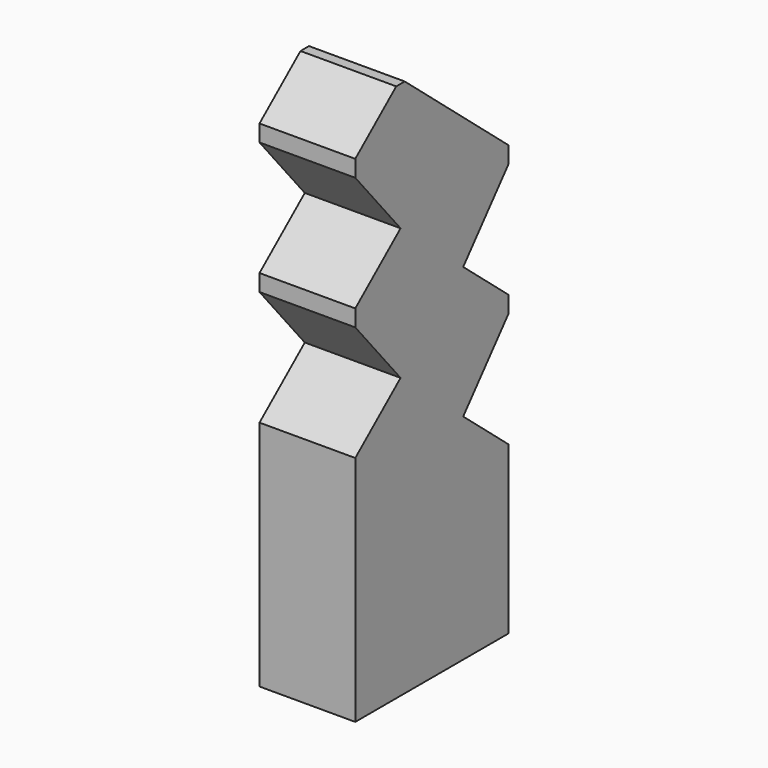
from build123d import *

# Parameters (mm, degrees)
CYLINDER128_R                   = 6
CYLINDER128_DEPTH               = 10
BOX001027045018_W               = 21
BOX001027045018_H               = 13
BOX001027045018_DEPTH           = 30
BOX001027045018_ROLL_ANGLE      = 40
BOX001027045019_W               = 21
BOX001027045019_H               = 13
BOX001027045019_DEPTH           = 30
BOX001027045019_ROLL_ANGLE      = 39.99997
BOX001027045019_PLACEMENT_ANGLE = 180
BOX001027045021_W               = 21
BOX001027045021_H               = 13
BOX001027045021_DEPTH           = 30
BOX001027045021_ROLL_ANGLE      = 40
BOX001027045021_PLACEMENT_ANGLE = 180
BOX001027045022_W               = 21
BOX001027045022_H               = 13
BOX001027045022_DEPTH           = 30
BOX001027045022_ROLL_ANGLE      = 40
BOX001027045024_W               = 21
BOX001027045024_H               = 13
BOX001027045024_DEPTH           = 30
BOX001027045024_ROLL_ANGLE      = 40
BOX001027045020_W               = 21
BOX001027045020_H               = 39
BOX001027045020_DEPTH           = 30
BOX001027045020_ROLL_ANGLE      = 39.99997
BOX001027045020_PLACEMENT_ANGLE = 180
BOX001027045017_W               = 16
BOX001027045017_H               = 32
BOX001027045017_DEPTH           = 90
CYLINDER129_R                   = 5
CYLINDER129_DEPTH               = 21


with BuildPart() as cylinder186:
    # Cylinder128 → Cylinder128 (new body)
    with BuildSketch(Plane(origin=(-5, 9, -11), x_dir=(1, 0, 0), z_dir=(0, 0, 1))):
        Circle(CYLINDER128_R)
    extrude(amount=CYLINDER128_DEPTH)


with BuildPart() as cube071:
    # Box001027045018 → Box001027045018 (new body)
    with BuildSketch(Plane.XY):
        with Locations((10.5, 6.5)):
            Rectangle(BOX001027045018_W, BOX001027045018_H)
    extrude(amount=BOX001027045018_DEPTH)


with BuildPart() as cube071_1:
    # Box001027045018 roll: moved
    add(cube071.part.rotate(Axis((0, 0, 0), (1, 0, 0)), BOX001027045018_ROLL_ANGLE))


with BuildPart() as cube071_2:
    # Box001027045018 placement: moved
    add(cube071_1.part.moved(Location((-11, -16.5, 27.4))))


with BuildPart() as cube072:
    # Box001027045019 → Box001027045019 (new body)
    with BuildSketch(Plane.XY):
        with Locations((10.5, 6.5)):
            Rectangle(BOX001027045019_W, BOX001027045019_H)
    extrude(amount=BOX001027045019_DEPTH)


with BuildPart() as cube072_1:
    # Box001027045019 roll: moved
    add(cube072.part.rotate(Axis((0, 0, 0), (1, 0, 0)), BOX001027045019_ROLL_ANGLE))


with BuildPart() as cube072_2:
    # Box001027045019 placement: moved
    add(cube072_1.part.moved(Location((11, 16.5, 38.4))).rotate(Axis((11, 16.5, 38.4), (0, 0, 1)), BOX001027045019_PLACEMENT_ANGLE))


with BuildPart() as cube074:
    # Box001027045021 → Box001027045021 (new body)
    with BuildSketch(Plane.XY):
        with Locations((10.5, 6.5)):
            Rectangle(BOX001027045021_W, BOX001027045021_H)
    extrude(amount=BOX001027045021_DEPTH)


with BuildPart() as cube074_1:
    # Box001027045021 roll: moved
    add(cube074.part.rotate(Axis((0, 0, 0), (1, 0, 0)), BOX001027045021_ROLL_ANGLE))


with BuildPart() as cube074_2:
    # Box001027045021 placement: moved
    add(cube074_1.part.moved(Location((11, 16.5, 16.4))).rotate(Axis((11, 16.5, 16.4), (0, 0, 1)), BOX001027045021_PLACEMENT_ANGLE))


with BuildPart() as cube075:
    # Box001027045022 → Box001027045022 (new body)
    with BuildSketch(Plane.XY):
        with Locations((10.5, 6.5)):
            Rectangle(BOX001027045022_W, BOX001027045022_H)
    extrude(amount=BOX001027045022_DEPTH)


with BuildPart() as cube075_1:
    # Box001027045022 roll: moved
    add(cube075.part.rotate(Axis((0, 0, 0), (1, 0, 0)), BOX001027045022_ROLL_ANGLE))


with BuildPart() as cube075_2:
    # Box001027045022 placement: moved
    add(cube075_1.part.moved(Location((-11, -16.5, 49.4))))


with BuildPart() as cube077:
    # Box001027045024 → Box001027045024 (new body)
    with BuildSketch(Plane.XY):
        with Locations((10.5, 6.5)):
            Rectangle(BOX001027045024_W, BOX001027045024_H)
    extrude(amount=BOX001027045024_DEPTH)


with BuildPart() as cube077_1:
    # Box001027045024 roll: moved
    add(cube077.part.rotate(Axis((0, 0, 0), (1, 0, 0)), BOX001027045024_ROLL_ANGLE))


with BuildPart() as cube077_2:
    # Box001027045024 placement: moved
    add(cube077_1.part.moved(Location((-11, -16.5, 71.4))))


with BuildPart() as fusion112034:
    # Box001027045020 → Box001027045020 (new body)
    with BuildSketch(Plane.XY):
        with Locations((10.5, 19.5)):
            Rectangle(BOX001027045020_W, BOX001027045020_H)
    extrude(amount=BOX001027045020_DEPTH)


with BuildPart() as fusion112034_1:
    # Box001027045020 roll: moved
    add(fusion112034.part.rotate(Axis((0, 0, 0), (1, 0, 0)), BOX001027045020_ROLL_ANGLE))


with BuildPart() as fusion112034_2:
    # Box001027045020 placement: moved
    add(fusion112034_1.part.moved(Location((11, 16.5, 60.4))).rotate(Axis((11, 16.5, 60.4), (0, 0, 1)), BOX001027045020_PLACEMENT_ANGLE))

    # Fusion112034: union Cube071, Cube072, Cube074, Cube075, Cube077
    add(cube071_2.part)
    add(cube072_2.part)
    add(cube074_2.part)
    add(cube075_2.part)
    add(cube077_2.part)


with BuildPart() as fusion112035:
    # Box001027045017 → Box001027045017 (new body)
    with BuildSketch(Plane(origin=(-8, -16, -11), x_dir=(1, 0, 0), z_dir=(0, 0, 1))):
        with Locations((8, 16)):
            Rectangle(BOX001027045017_W, BOX001027045017_H)
    extrude(amount=BOX001027045017_DEPTH)

    # Cut070: cut Fusion112034
    add(fusion112034_2.part, mode=Mode.SUBTRACT)

    # Fusion112035: union Cylinder186
    add(cylinder186.part)


with BuildPart() as body_blank:
    # Cylinder129 → Cylinder129 (new body)
    with BuildSketch(Plane(origin=(0, 13, -11), x_dir=(1, 0, 0), z_dir=(0, 0, 1))):
        Circle(CYLINDER129_R)
    extrude(amount=CYLINDER129_DEPTH)

    # Fusion112036: union Fusion112035
    add(fusion112035.part)


solid = body_blank.part
